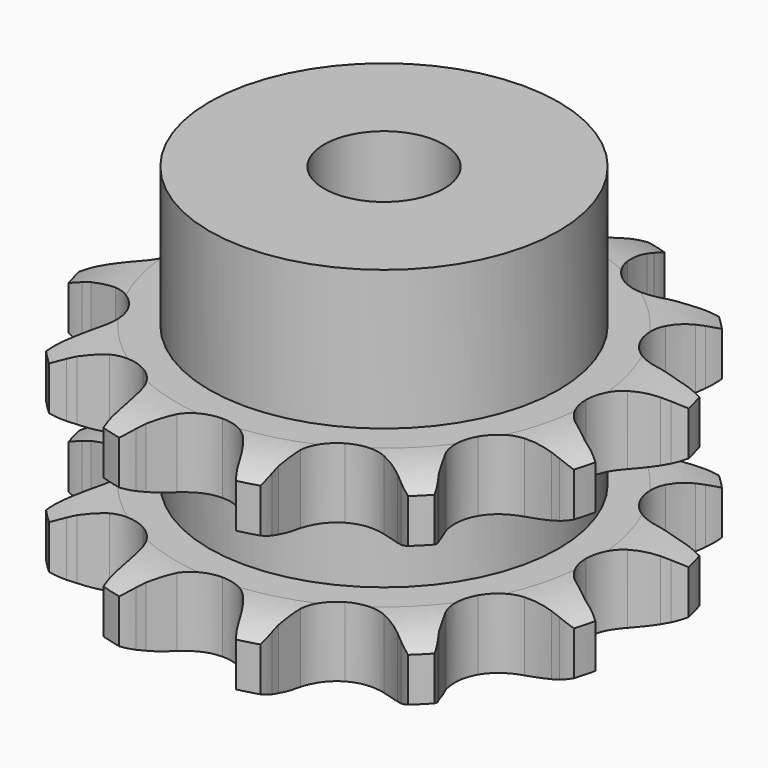
from build123d import *

# Parameters (mm, degrees)
PAD_DEPTH         = 21
SKETCH001_R       = 17.5
PAD001_DEPTH      = 35
SKETCH002_R       = 6
POCKET_DEPTH      = 0.001
POCKET_DEPTH_BACK = -35.001


with BuildPart() as part:
    # Sprocket → Pad (new body)
    with BuildSketch(Plane.XY):
        with BuildLine():
            ThreePointArc((-7.304066, 27.259147), (-6.046597, 26.096506), (-5.100713, 24.668826))
            Line((-5.100713, 24.668826), (-4.724087, 23.918901))
            ThreePointArc((-4.724087, 23.918901), (-4.077378, 22.798769), (-3.305003, 21.761289))
            ThreePointArc((-3.305003, 21.761289), (-1.823334, 20.624364), (0, 20.220141))
            ThreePointArc((0, 20.220141), (1.823334, 20.624364), (3.305003, 21.761289))
            ThreePointArc((3.305003, 21.761289), (4.077378, 22.798769), (4.724087, 23.918901))
            Line((4.724087, 23.918901), (5.100713, 24.668826))
            ThreePointArc((5.100713, 24.668826), (6.046597, 26.096506), (7.304066, 27.259147))
            ThreePointArc((7.304066, 27.259147), (7.811747, 25.623535), (7.917066, 23.914187))
            Line((7.917066, 23.914187), (7.868271, 23.076419))
            ThreePointArc((7.868271, 23.076419), (7.868271, 21.783002), (8.018428, 20.498331))
            ThreePointArc((8.018428, 20.498331), (8.733129, 18.77289), (10.11007, 17.511156))
            ThreePointArc((10.11007, 17.511156), (11.891235, 16.949557), (13.742861, 17.193328))
            Line((13.742861, 17.193328), (16.05063, 18.352333))
            ThreePointArc((16.05063, 18.352333), (16.396844, 18.589518), (16.751761, 18.813474))
            ThreePointArc((16.751761, 18.813474), (18.284759, 19.576939), (19.95508, 19.95508))
            ThreePointArc((19.95508, 19.95508), (19.576939, 18.284759), (18.813474, 16.751761))
            Line((18.813474, 16.751761), (18.352333, 16.05063))
            ThreePointArc((18.352333, 16.05063), (17.705624, 14.930498), (17.193328, 13.742861))
            ThreePointArc((17.193328, 13.742861), (16.949557, 11.891235), (17.511156, 10.11007))
            ThreePointArc((17.511156, 10.11007), (18.77289, 8.733129), (20.498331, 8.018428))
            Line((20.498331, 8.018428), (23.076419, 7.868271))
            ThreePointArc((23.076419, 7.868271), (23.494843, 7.900573), (23.914187, 7.917066))
            ThreePointArc((23.914187, 7.917066), (25.623535, 7.811747), (27.259147, 7.304066))
            ThreePointArc((27.259147, 7.304066), (26.096506, 6.046597), (24.668826, 5.100713))
            Line((24.668826, 5.100713), (23.918901, 4.724087))
            ThreePointArc((23.918901, 4.724087), (22.798769, 4.077378), (21.761289, 3.305003))
            ThreePointArc((21.761289, 3.305003), (20.624364, 1.823334), (20.220141, 0))
            ThreePointArc((20.220141, 0), (20.624364, -1.823334), (21.761289, -3.305003))
            Line((21.761289, -3.305003), (23.918901, -4.724087))
            ThreePointArc((23.918901, -4.724087), (24.297417, -4.905325), (24.668826, -5.100713))
            ThreePointArc((24.668826, -5.100713), (26.096506, -6.046597), (27.259147, -7.304066))
            ThreePointArc((27.259147, -7.304066), (25.623535, -7.811747), (23.914187, -7.917066))
            Line((23.914187, -7.917066), (23.076419, -7.868271))
            ThreePointArc((23.076419, -7.868271), (21.783002, -7.868271), (20.498331, -8.018428))
            ThreePointArc((20.498331, -8.018428), (18.77289, -8.733129), (17.511156, -10.11007))
            ThreePointArc((17.511156, -10.11007), (16.949557, -11.891235), (17.193328, -13.742861))
            Line((17.193328, -13.742861), (18.352333, -16.05063))
            ThreePointArc((18.352333, -16.05063), (18.589518, -16.396844), (18.813474, -16.751761))
            ThreePointArc((18.813474, -16.751761), (19.576939, -18.284759), (19.95508, -19.95508))
            ThreePointArc((19.95508, -19.95508), (18.284759, -19.576939), (16.751761, -18.813474))
            Line((16.751761, -18.813474), (16.05063, -18.352333))
            ThreePointArc((16.05063, -18.352333), (14.930498, -17.705624), (13.742861, -17.193328))
            ThreePointArc((13.742861, -17.193328), (11.891235, -16.949557), (10.11007, -17.511156))
            ThreePointArc((10.11007, -17.511156), (8.733129, -18.77289), (8.018428, -20.498331))
            Line((8.018428, -20.498331), (7.868271, -23.076419))
            ThreePointArc((7.868271, -23.076419), (7.900573, -23.494843), (7.917066, -23.914187))
            ThreePointArc((7.917066, -23.914187), (7.811747, -25.623535), (7.304066, -27.259147))
            ThreePointArc((7.304066, -27.259147), (6.046597, -26.096506), (5.100713, -24.668826))
            Line((5.100713, -24.668826), (4.724087, -23.918901))
            ThreePointArc((4.724087, -23.918901), (4.077378, -22.798769), (3.305003, -21.761289))
            ThreePointArc((3.305003, -21.761289), (1.823334, -20.624364), (0, -20.220141))
            ThreePointArc((0, -20.220141), (-1.823334, -20.624364), (-3.305003, -21.761289))
            Line((-3.305003, -21.761289), (-4.724087, -23.918901))
            ThreePointArc((-4.724087, -23.918901), (-4.905325, -24.297417), (-5.100713, -24.668826))
            ThreePointArc((-5.100713, -24.668826), (-6.046597, -26.096506), (-7.304066, -27.259147))
            ThreePointArc((-7.304066, -27.259147), (-7.811747, -25.623535), (-7.917066, -23.914187))
            Line((-7.917066, -23.914187), (-7.868271, -23.076419))
            ThreePointArc((-7.868271, -23.076419), (-7.868271, -21.783002), (-8.018428, -20.498331))
            ThreePointArc((-8.018428, -20.498331), (-8.733129, -18.77289), (-10.11007, -17.511156))
            ThreePointArc((-10.11007, -17.511156), (-11.891235, -16.949557), (-13.742861, -17.193328))
            Line((-13.742861, -17.193328), (-16.05063, -18.352333))
            ThreePointArc((-16.05063, -18.352333), (-16.396844, -18.589518), (-16.751761, -18.813474))
            ThreePointArc((-16.751761, -18.813474), (-18.284759, -19.576939), (-19.95508, -19.95508))
            ThreePointArc((-19.95508, -19.95508), (-19.576939, -18.284759), (-18.813474, -16.751761))
            Line((-18.813474, -16.751761), (-18.352333, -16.05063))
            ThreePointArc((-18.352333, -16.05063), (-17.705624, -14.930498), (-17.193328, -13.742861))
            ThreePointArc((-17.193328, -13.742861), (-16.949557, -11.891235), (-17.511156, -10.11007))
            ThreePointArc((-17.511156, -10.11007), (-18.77289, -8.733129), (-20.498331, -8.018428))
            Line((-20.498331, -8.018428), (-23.076419, -7.868271))
            ThreePointArc((-23.076419, -7.868271), (-23.494843, -7.900573), (-23.914187, -7.917066))
            ThreePointArc((-23.914187, -7.917066), (-25.623535, -7.811747), (-27.259147, -7.304066))
            ThreePointArc((-27.259147, -7.304066), (-26.096506, -6.046597), (-24.668826, -5.100713))
            Line((-24.668826, -5.100713), (-23.918901, -4.724087))
            ThreePointArc((-23.918901, -4.724087), (-22.798769, -4.077378), (-21.761289, -3.305003))
            ThreePointArc((-21.761289, -3.305003), (-20.624364, -1.823334), (-20.220141, 0))
            ThreePointArc((-20.220141, 0), (-20.624364, 1.823334), (-21.761289, 3.305003))
            Line((-21.761289, 3.305003), (-23.918901, 4.724087))
            ThreePointArc((-23.918901, 4.724087), (-24.297417, 4.905325), (-24.668826, 5.100713))
            ThreePointArc((-24.668826, 5.100713), (-26.096506, 6.046597), (-27.259147, 7.304066))
            ThreePointArc((-27.259147, 7.304066), (-25.623535, 7.811747), (-23.914187, 7.917066))
            Line((-23.914187, 7.917066), (-23.076419, 7.868271))
            ThreePointArc((-23.076419, 7.868271), (-21.783002, 7.868271), (-20.498331, 8.018428))
            ThreePointArc((-20.498331, 8.018428), (-18.77289, 8.733129), (-17.511156, 10.11007))
            ThreePointArc((-17.511156, 10.11007), (-16.949557, 11.891235), (-17.193328, 13.742861))
            Line((-17.193328, 13.742861), (-18.352333, 16.05063))
            ThreePointArc((-18.352333, 16.05063), (-18.589518, 16.396844), (-18.813474, 16.751761))
            ThreePointArc((-18.813474, 16.751761), (-19.576939, 18.284759), (-19.95508, 19.95508))
            ThreePointArc((-19.95508, 19.95508), (-18.284759, 19.576939), (-16.751761, 18.813474))
            Line((-16.751761, 18.813474), (-16.05063, 18.352333))
            ThreePointArc((-16.05063, 18.352333), (-14.930498, 17.705624), (-13.742861, 17.193328))
            ThreePointArc((-13.742861, 17.193328), (-11.891235, 16.949557), (-10.11007, 17.511156))
            ThreePointArc((-10.11007, 17.511156), (-8.733129, 18.77289), (-8.018428, 20.498331))
            Line((-8.018428, 20.498331), (-7.868271, 23.076419))
            ThreePointArc((-7.868271, 23.076419), (-7.900573, 23.494843), (-7.917066, 23.914187))
            ThreePointArc((-7.917066, 23.914187), (-7.811747, 25.623535), (-7.304066, 27.259147))
        make_face()
    extrude(amount=PAD_DEPTH)

    # Sketch → Groove (revolve, cut)
    with BuildSketch(Plane.XZ):
        with BuildLine():
            ThreePointArc((20.833431, 0), (23.74032, 0.329167), (26.5, 1.3))
            Line((26.5, 1.3), (26.5, 5.7))
            ThreePointArc((26.5, 5.7), (23.74032, 6.670833), (20.833431, 7))
            Line((17.5, 7), (20.833431, 7))
            Line((17.5, 14), (17.5, 7))
            Line((20.833431, 14), (17.5, 14))
            ThreePointArc((20.833431, 14), (23.74032, 14.329167), (26.5, 15.3))
            Line((26.5, 15.3), (26.5, 19.7))
            ThreePointArc((26.5, 19.7), (23.74032, 20.670833), (20.833431, 21))
            Line((20.833431, 21), (30.833431, 21))
            Line((30.833431, 21), (30.833431, 0))
            Line((20.833431, 0), (30.833431, 0))
        make_face()
    revolve(axis=Axis((0, 0, 0), (0, 0, 1)), mode=Mode.SUBTRACT)

    # Sketch001 → Pad001 (join)
    with BuildSketch(Plane.XY):
        Circle(SKETCH001_R)
    extrude(amount=PAD001_DEPTH)

    # Sketch002 → Pocket (cut, two sides)
    with BuildSketch(Plane.XY) as pocket_sk:
        Circle(SKETCH002_R)
    extrude(amount=-POCKET_DEPTH, mode=Mode.SUBTRACT)
    extrude(pocket_sk.sketch, amount=-POCKET_DEPTH_BACK, mode=Mode.SUBTRACT)


solid = part.part
